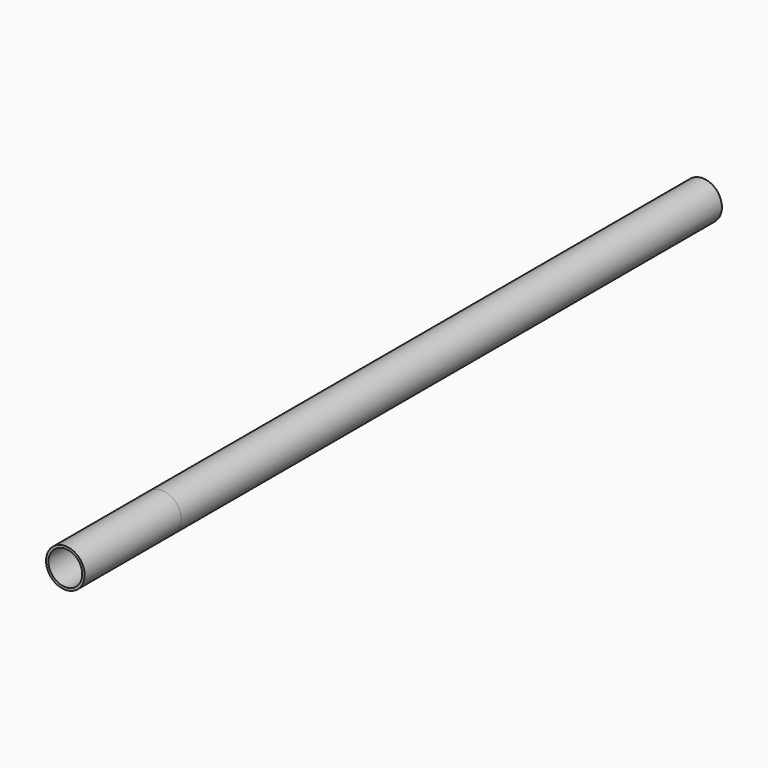
from build123d import *

# Parameters (mm, degrees)
F0_R     = 8
F0_R_2   = 7
F1_DEPTH = 330
F2_DEPTH = 280


with BuildPart() as f1:
    # F0 (on Front) → F1 (new body)
    with BuildSketch(Plane.XZ):
        Circle(F0_R)
        Circle(F0_R_2, mode=Mode.SUBTRACT)
    extrude(amount=F1_DEPTH)


with BuildPart() as f2:
    # F0 (on Front) → F2 (new body)
    with BuildSketch(Plane.XZ):
        Circle(F0_R)
        Circle(F0_R_2, mode=Mode.SUBTRACT)
    extrude(amount=F2_DEPTH)


solid = Compound([f1.part, f2.part])
